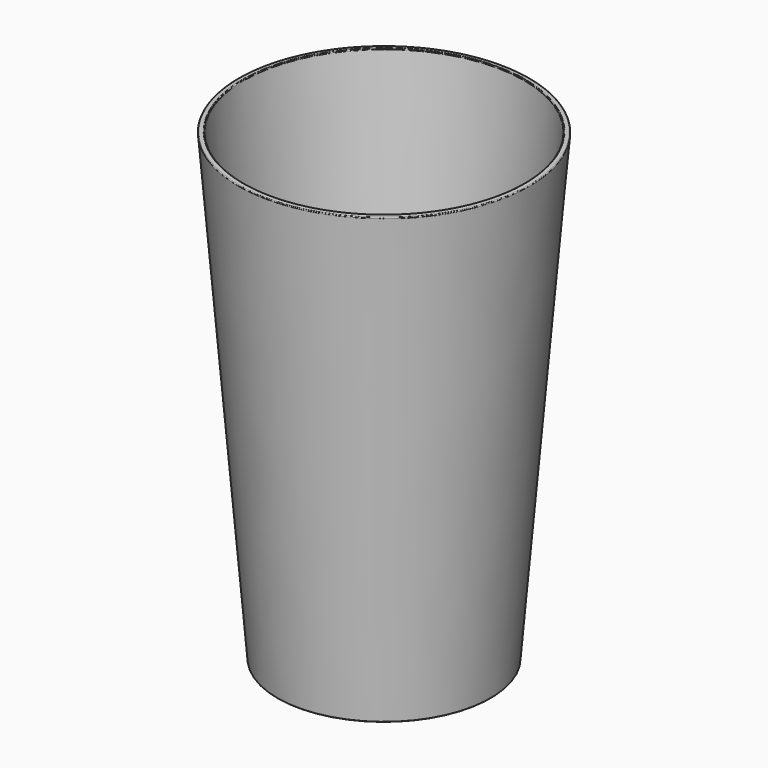
from build123d import *

# Parameters (mm, degrees)
F2_R = 0.2


with BuildPart() as f1:
    # F0 (on Front) → F1 (revolve)
    with BuildSketch(Plane.XZ):
        Polygon((-24.75, -1), (-24.75, 0), (0, 0), (0, 1.3), (-25.637944, 1.3), (-35.204529, 115.608419), (-36.5, 115.5), (-26.75, -1), align=None)
    revolve(axis=Axis((0, 0, 0.65), (0, 0, -1)))

    # F2
    f2_edges = [f1.edges().sort_by_distance(p)[0] for p in [
        (36.5, 0, 115.5),
        (35.204529, 0, 115.608419),
        (24.75, 0, 0),
        (24.75, 0, -1),
        (26.75, 0, -1),
        (25.637944, 0, 1.3),
    ]]
    fillet(f2_edges, radius=F2_R)


solid = f1.part
